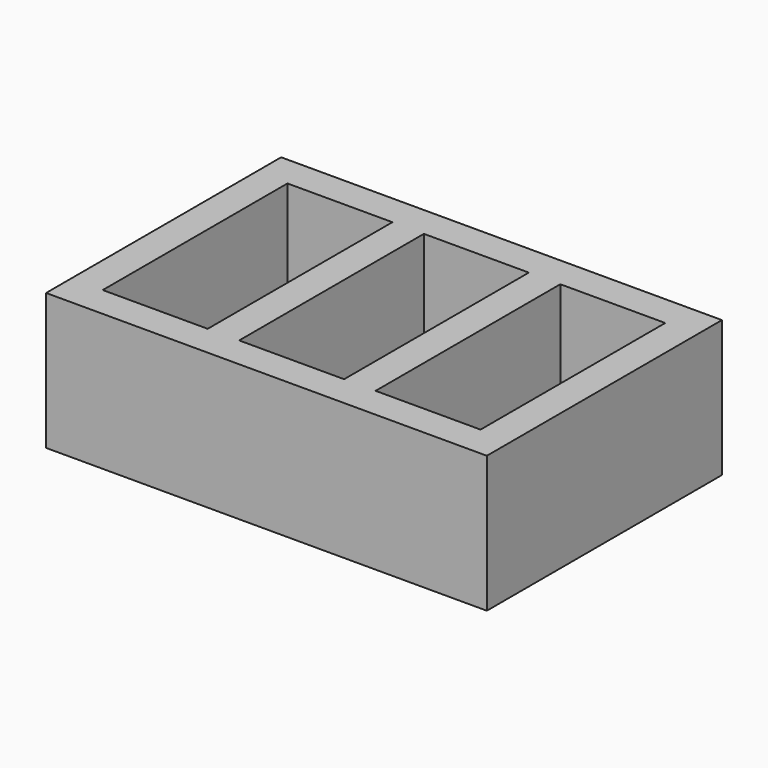
from build123d import *

# Parameters (mm, degrees)
BOX004_W     = 10
BOX004_H     = 22
BOX004_DEPTH = 10
BOX003_W     = 10
BOX003_H     = 22
BOX003_DEPTH = 10
BOX002_W     = 10
BOX002_H     = 22
BOX002_DEPTH = 10
BOX001_W     = 42
BOX001_H     = 28
BOX001_DEPTH = 13


with BuildPart() as cubo003:
    # Box004 → Box004 (new body)
    with BuildSketch(Plane(origin=(29, 3, 3), x_dir=(1, 0, 0), z_dir=(0, 0, 1))):
        with Locations((5, 11)):
            Rectangle(BOX004_W, BOX004_H)
    extrude(amount=BOX004_DEPTH)


with BuildPart() as cubo002:
    # Box003 → Box003 (new body)
    with BuildSketch(Plane(origin=(16, 3, 3), x_dir=(1, 0, 0), z_dir=(0, 0, 1))):
        with Locations((5, 11)):
            Rectangle(BOX003_W, BOX003_H)
    extrude(amount=BOX003_DEPTH)


with BuildPart() as cubo001:
    # Box002 → Box002 (new body)
    with BuildSketch(Plane(origin=(3, 3, 3), x_dir=(1, 0, 0), z_dir=(0, 0, 1))):
        with Locations((5, 11)):
            Rectangle(BOX002_W, BOX002_H)
    extrude(amount=BOX002_DEPTH)


with BuildPart() as cut002:
    # Box001 → Box001 (new body)
    with BuildSketch(Plane.XY):
        with Locations((21, 14)):
            Rectangle(BOX001_W, BOX001_H)
    extrude(amount=BOX001_DEPTH)

    # Cut: cut Cubo001
    add(cubo001.part, mode=Mode.SUBTRACT)

    # Cut001: cut Cubo002
    add(cubo002.part, mode=Mode.SUBTRACT)

    # Cut002: cut Cubo003
    add(cubo003.part, mode=Mode.SUBTRACT)


solid = cut002.part
